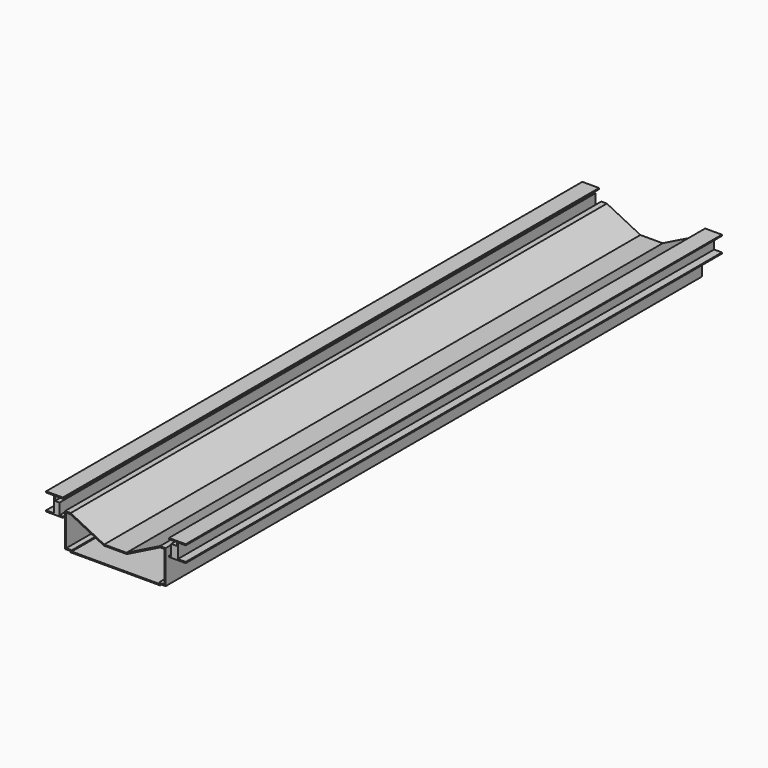
from build123d import *

# Parameters (mm, degrees)
F0_W     = 40
F0_H     = 100
F0_W_2   = 10
F0_H_2   = 40
F1_DEPTH = 6000
F0_W_3   = 50
F0_W_4   = 800
F0_H_3   = 10
F2_T     = -10


with BuildPart() as f1:
    # F0 (on Front) → F1 (new body)
    with BuildSketch(Plane.XZ):
        with Locations((5, 0)):
            Rectangle(F0_W, F0_H)
        with Locations((-20, 0)):
            Rectangle(F0_W_2, F0_H)
        with Locations((-20, 70)):
            Rectangle(F0_W_2, F0_H_2)
        Polygon((55, -50), (25, -50), (-15, -50), (-25, -50), (-95, -50), (-95, -60), (55, -60), align=None)
        Polygon((-25, 90), (-15, 90), (55, 90), (55, 100), (-95, 100), (-95, 90), align=None)
    extrude(amount=F1_DEPTH)


with BuildPart() as f1b:
    # F0 (on Front) → F1, piece 2 (new body)
    with BuildSketch(Plane.XZ):
        with Locations((1050, 0)):
            Rectangle(F0_W_3, F0_H)
        Polygon((1075, 80), (1075, 50), (1075, -50), (1025, -50), (1005, -50), (1005, -60), (1155, -60), (1155, -50), (1085, -50), (1085, 80), (1155, 80), (1155, 90), (1005, 90), (1005, 80), align=None)
    extrude(amount=F1_DEPTH)


with BuildPart() as f1c:
    # F0 (on Front) → F1, piece 3 (new body)
    with BuildSketch(Plane.XZ):
        Polygon((125, 0), (75, 0), (75, -300), (125, -300), (125, -10), align=None)
        Polygon((425, -150), (125, 0), (125, -10), (425, -160), (625, -160), (925, -10), (925, 0), (625, -150), align=None)
        Polygon((125, -10), (125, -300), (925, -300), (925, -10), (625, -160), (425, -160), align=None)
        with Locations((525, -305)):
            Rectangle(F0_W_4, F0_H_3)
        Polygon((925, -10), (925, -300), (975, -300), (975, 0), (925, 0), align=None)
    extrude(amount=F1_DEPTH)

    # F2
    f2_openings = [f1c.faces().sort_by_distance(p)[0] for p in [
        (525, 0, -189.359606),
        (525, -6000, -189.359606),
    ]]
    offset(amount=F2_T, openings=f2_openings, kind=Kind.INTERSECTION)


solid = Compound([f1.part, f1b.part, f1c.part])
